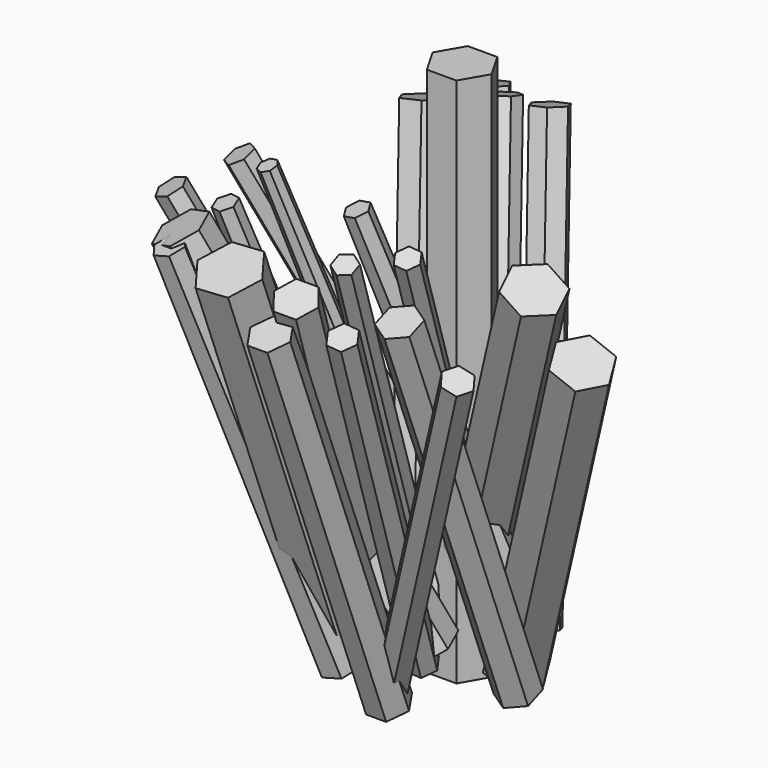
from build123d import *

# Parameters (mm, degrees)
F10_DEPTH = 88.9
F12_DEPTH = 88.9
F14_DEPTH = 114.3
F16_DEPTH = 88.9
F16_TAPER = 0.5
F18_DEPTH = 88.9
F20_DEPTH = 88.9
F22_DEPTH = 88.9


with BuildPart() as f10:
    # F9 (on 3pt) → F10 (new body)
    with BuildSketch(Plane(origin=(3.6968089487, -2.6858889192, 8.5450893271), x_dir=(0.9243680764, 0.114395619, -0.3639468392), z_dir=(0.3815018472, -0.2771773165, 0.8818327936))):
        Polygon((-6.6890265835, 12.3745745621), (-10.9533727127, 8.1102268197), (-9.3925123019, 2.2850208701), (-3.5673057618, 0.7241626629), (0.6970403674, 4.9885104052), (-0.8638200434, 10.8137163548), align=None)
    extrude(amount=F10_DEPTH)

    # F11 (on 3pt) → F12, piece 3 (join)
    with BuildSketch(Plane(origin=(1.4063897849, -4.3284226878, 9.6104362455), x_dir=(0.9912152024, 0.0543132716, -0.1205922508), z_dir=(0.1322589219, -0.4070511067, 0.9037792729))):
        Polygon((1.3078073553, 12.5880284466), (-1.3078073553, 12.5880284466), (-2.6156147106, 10.3228396607), (-1.3078073553, 8.0576508748), (1.3078073553, 8.0576508748), (2.6156147106, 10.3228396607), align=None)
        Polygon((-10.863698576, 5.4180289271), (-10.863698576, 2.8809619971), (-8.6665341635, 1.6124285321), (-6.469369751, 2.8809619971), (-6.469369751, 5.4180289271), (-8.6665341635, 6.6865623921), align=None)
    extrude(amount=F12_DEPTH)

    # F13 (on Top) → F14 (join)
    with BuildSketch(Plane.XY):
        Polygon((3.175, 5.499261314), (-3.175, 5.499261314), (-6.35, 0), (-3.175, -5.499261314), (3.175, -5.499261314), (6.35, 0), align=None)
    extrude(amount=F14_DEPTH)



with BuildPart() as f10b:
    # F9 (on 3pt) → F10, piece 2 (new body)
    with BuildSketch(Plane(origin=(3.6968089487, -2.6858889192, 8.5450893271), x_dir=(0.9243680764, 0.114395619, -0.3639468392), z_dir=(0.3815018472, -0.2771773165, 0.8818327936))):
        Polygon((-6.7745208886, -17.3228340304), (-5.0099637213, -20.0074395084), (-1.8027485945, -19.8215909141), (-0.360090635, -16.9511368418), (-2.1246478024, -14.2665313637), (-5.3318629292, -14.452379958), align=None)
    extrude(amount=F10_DEPTH)

    # F11 (on 3pt) → F12, piece 2 (join)
    with BuildSketch(Plane(origin=(1.4063897849, -4.3284226878, 9.6104362455), x_dir=(0.9912152024, 0.0543132716, -0.1205922508), z_dir=(0.1322589219, -0.4070511067, 0.9037792729))):
        Polygon((1.5313623162, -6.2159540507), (-1.5313623162, -6.2159540507), (-3.0627246324, -8.8683513871), (-1.5313623162, -11.5207487235), (1.5313623162, -11.5207487235), (3.0627246324, -8.8683513871), align=None)
    extrude(amount=F12_DEPTH)


with BuildPart() as f10c:
    # F9 (on 3pt) → F10, piece 3 (new body)
    with BuildSketch(Plane(origin=(3.6968089487, -2.6858889192, 8.5450893271), x_dir=(0.9243680764, 0.114395619, -0.3639468392), z_dir=(0.3815018472, -0.2771773165, 0.8818327936))):
        Polygon((16.0192956986, -0.5007570568), (13.45631873, 4.939963385), (7.4630281281, 5.4407204418), (4.0327144949, 0.5007570568), (6.5956914635, -4.939963385), (12.5889820653, -5.4407204418), align=None)
    extrude(amount=F10_DEPTH)


with BuildPart() as f12:
    # F11 (on 3pt) → F12 (new body)
    with BuildSketch(Plane(origin=(1.4063897849, -4.3284226878, 9.6104362455), x_dir=(0.9912152024, 0.0543132716, -0.1205922508), z_dir=(0.1322589219, -0.4070511067, 0.9037792729))):
        Polygon((-7.4044020706, -5.5003936442), (-9.9286662564, -1.8972158357), (-14.3112418659, -2.2817038422), (-16.1695532895, -6.2693696573), (-13.6452891036, -9.8725474658), (-9.2627134942, -9.4880594593), align=None)
    extrude(amount=F12_DEPTH)

    # F15 (on 3pt) → F16 (join)
    with BuildSketch(Plane(origin=(-1.7017616779, -2.3422740065, 8.0469398098), x_dir=(0.9800012015, -0.0556136898, 0.1910621957), z_dir=(-0.1989915705, -0.2738884, 0.9409503171))):
        Polygon((-10.8611900359, 2.0845646504), (-13.2430088382, -0.2972530765), (-12.3712035807, -3.5508775299), (-9.1175795209, -4.4226842565), (-6.7357607186, -2.0408665296), (-7.6075659761, 1.2127579239), align=None)
    extrude(amount=F16_DEPTH, taper=F16_TAPER)


with BuildPart() as f16:
    # F15 (on 3pt) → F16, piece 2 (new body)
    with BuildSketch(Plane(origin=(-1.7017616779, -2.3422740065, 8.0469398098), x_dir=(0.9800012015, -0.0556136898, 0.1910621957), z_dir=(-0.1989915705, -0.2738884, 0.9409503171))):
        Polygon((-14.8942785168, -10.7108473354), (-16.4225832805, -14.5066104892), (-13.8995083445, -17.7280428163), (-9.8481286447, -17.1537119895), (-8.3198238809, -13.3579488357), (-10.8428988169, -10.1365165087), align=None)
    extrude(amount=F16_DEPTH, taper=F16_TAPER)


with BuildPart() as f16b:
    # F15 (on 3pt) → F16, piece 3 (new body)
    with BuildSketch(Plane(origin=(-1.7017616779, -2.3422740065, 8.0469398098), x_dir=(0.9800012015, -0.0556136898, 0.1910621957), z_dir=(-0.1989915705, -0.2738884, 0.9409503171))):
        Polygon((-7.9034837733, 12.1166268364), (-10.3316752685, 12.1166268364), (-11.8456279027, 10.2181902799), (-11.3053044634, 7.8508786151), (-9.1175795209, 6.7973258098), (-6.9298545784, 7.8508786151), (-6.389531139, 10.2181902799), align=None)
    extrude(amount=F16_DEPTH, taper=F16_TAPER)


with BuildPart() as f10_1:
    add(f10.part)

    add(f10c.part)  # F16#4 merges F10c
    # F15 (on 3pt) → F16, piece 4 (join)
    with BuildSketch(Plane(origin=(-1.7017616779, -2.3422740065, 8.0469398098), x_dir=(0.9800012015, -0.0556136898, 0.1910621957), z_dir=(-0.1989915705, -0.2738884, 0.9409503171))):
        Polygon((15.2288088575, 0), (18.6768230427, 0.0096145954), (20.3925036514, 3.0004897701), (18.6601700749, 5.9817503494), (15.2121558897, 5.972135754), (13.496475281, 2.9812605793), align=None)
    extrude(amount=F16_DEPTH, taper=F16_TAPER)


    add(f10b.part)  # F18 merges F10b

    add(f12.part)  # F18 merges F12

    add(f16.part)  # F18 merges F16

    add(f16b.part)  # F18 merges F16b
    # F17 (on 3pt) → F18 (join)
    with BuildSketch(Plane(origin=(-3.6968089487, -2.6858889192, 8.5450893271), x_dir=(0.9243680764, -0.114395619, 0.3639468392), z_dir=(0.3815018472, 0.2771773165, -0.8818327936))):
        Polygon((-9.4227961328, -7.0281182416), (-6.3149665419, -7.0281182416), (-4.7610517464, -4.3366588652), (-6.3149665419, -1.6451994888), (-9.4227961328, -1.6451994888), (-10.9767109283, -4.3366588652), align=None)
        Polygon((1.845779229, -16.0878702781), (4.4553900547, -14.5770430782), (4.4517807317, -11.5616402092), (1.838560583, -10.0570645401), (-0.7710502427, -11.5678917399), (-0.7674409197, -14.583294609), align=None)
        Polygon((8.7739144144, 2.95533222), (10.8084016634, 8.1268603614), (7.346970541, 12.4745420734), (1.8510521697, 11.6506956439), (-0.1834350792, 6.4791675025), (3.2779960431, 2.1314857906), align=None)
    extrude(amount=-F18_DEPTH)

    # F19 (on 3pt) → F20 (join)
    with BuildSketch(Plane(origin=(0, -2.8426050873, 7.3789233001), x_dir=(1, 0, 0), z_dir=(0, -0.3594811235, 0.9331523573))):
        Polygon((2.1535751114, -14.298569411), (-2.1535751114, -14.298569411), (-4.3071502228, -18.0286709219), (-2.1535751114, -21.7587724328), (2.1535751114, -21.7587724328), (4.3071502228, -18.0286709219), align=None)
        Polygon((22.8838380426, -8.5740176243), (22.8838380426, -4.2668652507), (19.1537346691, -2.1132890639), (15.4236312956, -4.2668652507), (15.4236312956, -8.5740176243), (19.1537346691, -10.7275938111), align=None)
        Polygon((-18.8090820017, -14.3828109499), (-12.1733230788, -13.9256934614), (-9.2513189749, -7.9503989165), (-12.9650737939, -2.4322218601), (-19.6008327168, -2.8893393486), (-22.5228368207, -8.8646338935), align=None)
    extrude(amount=F20_DEPTH)

    # F21 (on 3pt) → F22 (join)
    with BuildSketch(Plane(origin=(-1.7017616779, 2.3422740065, 8.0469398098), x_dir=(0.9800012015, 0.0556136898, 0.1910621957), z_dir=(0.1989915705, -0.2738884, -0.9409503171))):
        Polygon((-2.9338009783, -14.9612781759), (0, -10.5722322865), (-2.3341247495, -5.8369631649), (-7.6020504773, -5.4907399328), (-10.5358514556, -9.8797858222), (-8.2017267061, -14.6150549438), align=None)
        Polygon((20.9012660874, 6.6083300004), (17.0642908242, 6.6083300004), (15.1458031925, 3.2854119487), (17.0642908242, -0.0375061029), (20.9012660874, -0.0375061029), (22.819753719, 3.2854119487), align=None)
        Polygon((2.3728864839, 10.1421381206), (0.1791611056, 14.178595337), (-4.4133760743, 14.2970020387), (-6.8121878758, 10.3789515239), (-4.6184624975, 6.3424943075), (-0.0259253177, 6.2240876059), align=None)
        Polygon((5.9749869081, -5.0556038864), (8.4319613183, -3.3006210713), (8.1405888222, -0.2953274081), (5.3922419161, 0.95498344), (2.9352675059, -0.7999993751), (3.226640002, -3.8052930383), align=None)
    extrude(amount=-F22_DEPTH)


solid = f10_1.part
